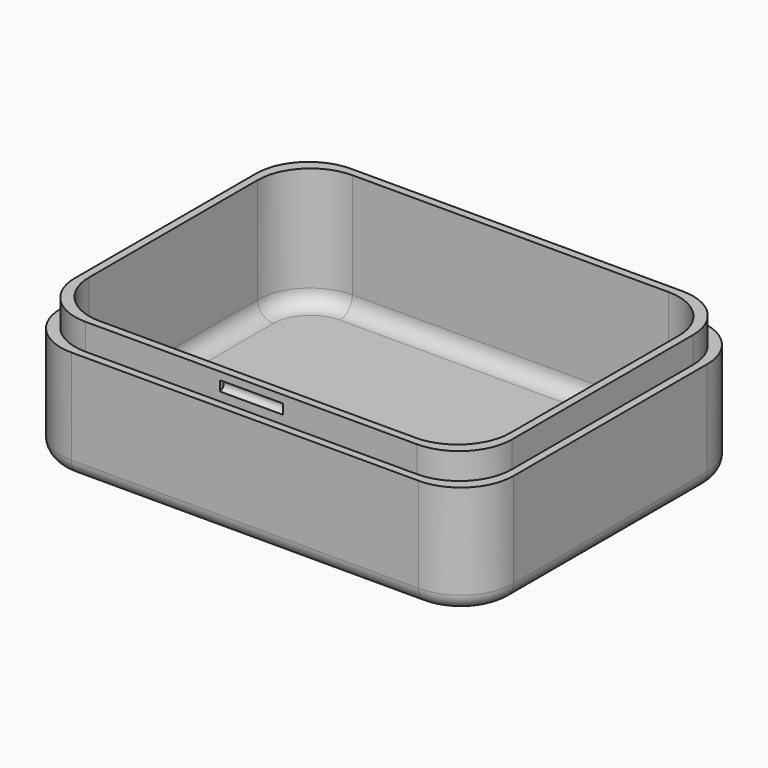
from build123d import *

# Parameters (mm, degrees)
F1_DEPTH  = 26
F3_DEPTH  = 23
F4_W      = 86
F4_H      = 66
F5_DEPTH  = 5
F6_R      = 3
F7_R      = 3
F9_R      = 0.95
F10_DEPTH = 6


with BuildPart() as f1:
    # F0 (on Top) → F1 (new body)
    with BuildSketch(Plane.XY):
        with BuildLine():
            Line((76, 0), (10, 0))
            ThreePointArc((10, 0), (2.928932, -2.928932), (0, -10))
            Line((0, -10), (0, -56))
            ThreePointArc((0, -56), (2.928932, -63.071068), (10, -66))
            Line((10, -66), (76, -66))
            ThreePointArc((76, -66), (83.071068, -63.071068), (86, -56))
            Line((86, -56), (86, -10))
            ThreePointArc((86, -10), (83.071068, -2.928932), (76, 0))
        make_face()
    extrude(amount=F1_DEPTH)

    # F2 (on face) → F3 (cut)
    with BuildSketch(Plane.XY.offset(26)):
        with BuildLine():
            Line((73, -3), (13, -3))
            ThreePointArc((13, -3), (5.928932, -5.928932), (3, -13))
            Line((3, -13), (3, -53))
            ThreePointArc((3, -53), (5.928932, -60.071068), (13, -63))
            Line((13, -63), (73, -63))
            ThreePointArc((73, -63), (80.071068, -60.071068), (83, -53))
            Line((83, -53), (83, -13))
            ThreePointArc((83, -13), (80.071068, -5.928932), (73, -3))
        make_face()
    extrude(amount=-F3_DEPTH, mode=Mode.SUBTRACT)

    # F4 (on face) → F5 (cut)
    with BuildSketch(Plane.XY.offset(26)):
        with Locations((43, -33)):
            Rectangle(F4_W, F4_H)
        with BuildLine():
            ThreePointArc((1.5, -11.5), (4.428932, -4.428932), (11.5, -1.5))
            Line((11.5, -1.5), (74.5, -1.5))
            ThreePointArc((74.5, -1.5), (81.571068, -4.428932), (84.5, -11.5))
            Line((84.5, -11.5), (84.5, -54.5))
            ThreePointArc((84.5, -54.5), (81.571068, -61.571068), (74.5, -64.5))
            Line((74.5, -64.5), (11.5, -64.5))
            ThreePointArc((11.5, -64.5), (4.428932, -61.571068), (1.5, -54.5))
            Line((1.5, -54.5), (1.5, -11.5))
        make_face(mode=Mode.SUBTRACT)
    extrude(amount=-F5_DEPTH, mode=Mode.SUBTRACT)

    # F6
    f6_edges = [f1.edges().sort_by_distance(p)[0] for p in [
        (83.071068, -2.928932, 0),
        (43, 0, 0),
        (2.928932, -2.928932, 0),
        (0, -33, 0),
        (2.928932, -63.071068, 0),
        (43, -66, 0),
        (83.071068, -63.071068, 0),
        (86, -33, 0),
    ]]
    fillet(f6_edges, radius=F6_R)

    # F7
    f7_edges = [f1.edges().sort_by_distance(p)[0] for p in [
        (43, -3, 3),
        (5.928932, -5.928932, 3),
        (3, -33, 3),
        (5.928932, -60.071068, 3),
        (43, -63, 3),
        (80.071068, -60.071068, 3),
        (83, -33, 3),
        (80.071068, -5.928932, 3),
    ]]
    fillet(f7_edges, radius=F7_R)

    # F9 (on offset) → F10 (cut, symmetric)
    with BuildSketch(Plane.YZ.offset(43)):
        with Locations((-1.5, 23.6)):
            Circle(F9_R)
        with Locations((-64.5, 23.6)):
            Circle(F9_R)
    extrude(amount=F10_DEPTH, both=True, mode=Mode.SUBTRACT)


solid = f1.part
